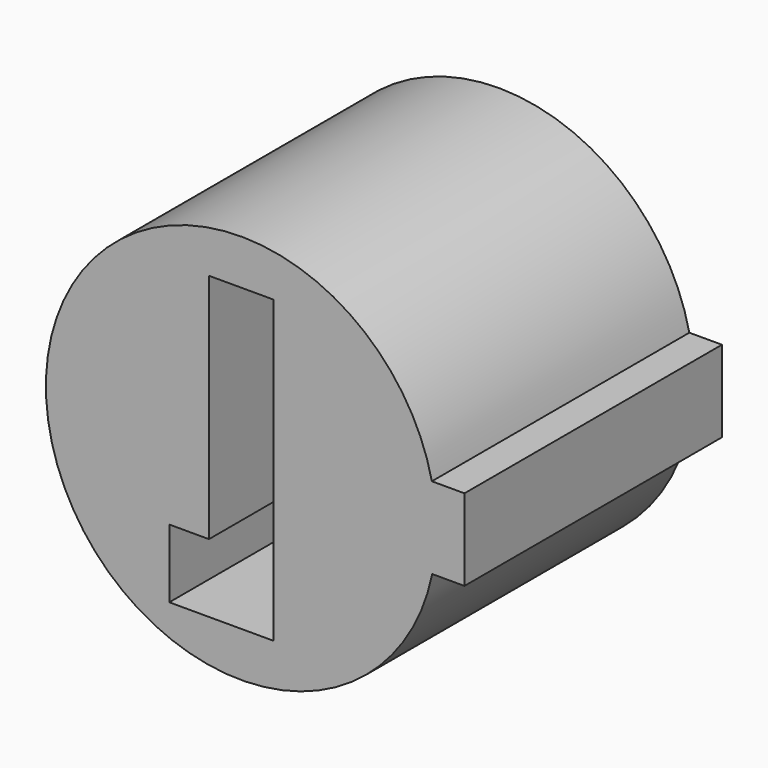
from build123d import *

# Parameters (mm, degrees)
PAD_DEPTH    = 15
POCKET_DEPTH = 13


with BuildPart() as part:
    # Sketch → Pad (new body)
    with BuildSketch(Plane.XZ):
        with BuildLine():
            ThreePointArc((8.889624, 1.945402), (-9.099882, -0.046426), (8.90901, -1.854598))
            Line((10.40901, -1.854598), (8.90901, -1.854598))
            Line((10.40901, 1.945402), (10.40901, -1.854598))
            Line((8.889624, 1.945402), (10.40901, 1.945402))
        make_face()
    extrude(amount=PAD_DEPTH)

    # Sketch001 (on Face6 of Pad) → Pocket (cut)
    with BuildSketch(Plane.XZ.offset(15)):
        Polygon((-1.5, 7), (1.5, 7), (1.5, -7), (-3.348355, -7), (-3.348355, -3.808815), (-1.5, -3.808815), align=None)
    extrude(amount=-POCKET_DEPTH, mode=Mode.SUBTRACT)


solid = part.part
